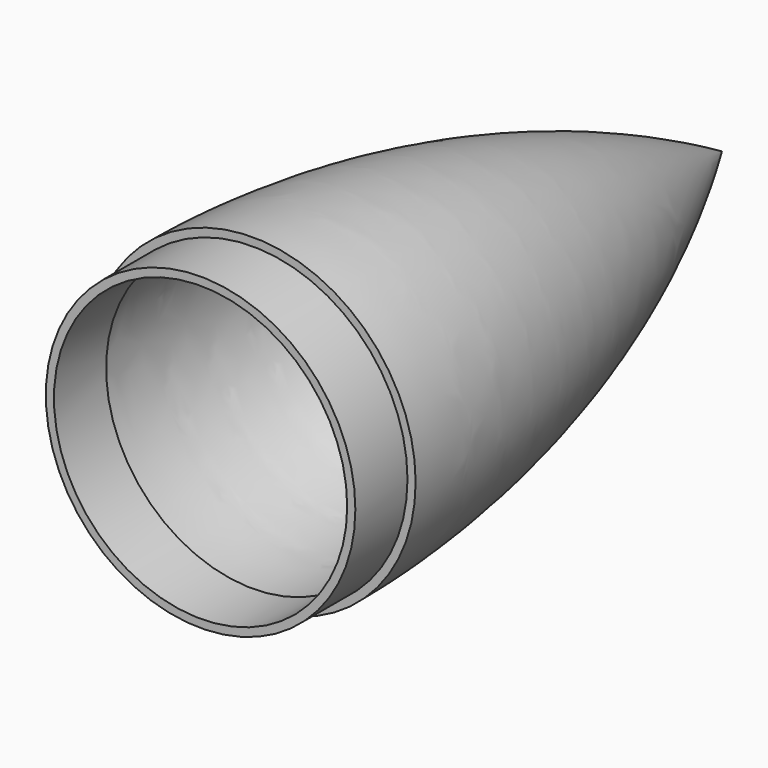
from build123d import *

# Parameters (mm, degrees)
F2_R     = 60.325
F2_R_2   = 57.15
F3_DEPTH = 25.4


with BuildPart() as f1:
    # F0 (on Top) → F1 (revolve)
    with BuildSketch(Plane.XY):
        with BuildLine():
            Line((-63.5, 0), (-59.055, 0))
            ThreePointArc((-59.055, 0), (-43.889063, 115.55439), (0, 223.52))
            Line((0, 223.52), (0, 228.6))
            ThreePointArc((0, 228.6), (-46.836818, 118.490783), (-63.5, 0))
        make_face()
    revolve(axis=Axis((0, 114.3, 0), (0, 1, 0)))

    # F2 (on face) → F3 (join)
    with BuildSketch(Plane.XZ):
        Circle(F2_R)
        Circle(F2_R_2, mode=Mode.SUBTRACT)
        Circle(F2_R)
        Circle(F2_R_2, mode=Mode.SUBTRACT)
    extrude(amount=F3_DEPTH)


solid = f1.part
